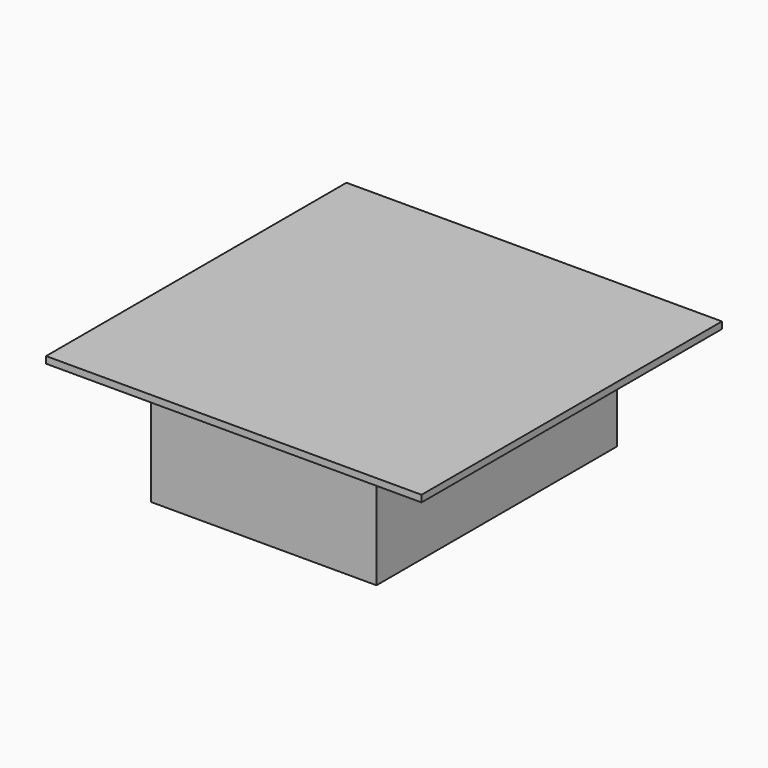
from build123d import *

# Parameters (mm, degrees)
F2_W     = 1000
F2_H     = 1000
F2_W_2   = 600
F2_H_2   = 800
F3_DEPTH = 18
F4_DEPTH = 300


with BuildPart() as f3:
    # F2 (on Top) → F3 (new body)
    with BuildSketch(Plane.XY):
        Rectangle(F2_W, F2_H)
        Rectangle(F2_W_2, F2_H_2, mode=Mode.SUBTRACT)
        Rectangle(F2_W_2, F2_H_2)
    extrude(amount=F3_DEPTH)

    # F2 (on Top) → F4 (join)
    with BuildSketch(Plane.XY):
        Rectangle(F2_W_2, F2_H_2)
    extrude(amount=-F4_DEPTH)


solid = f3.part
